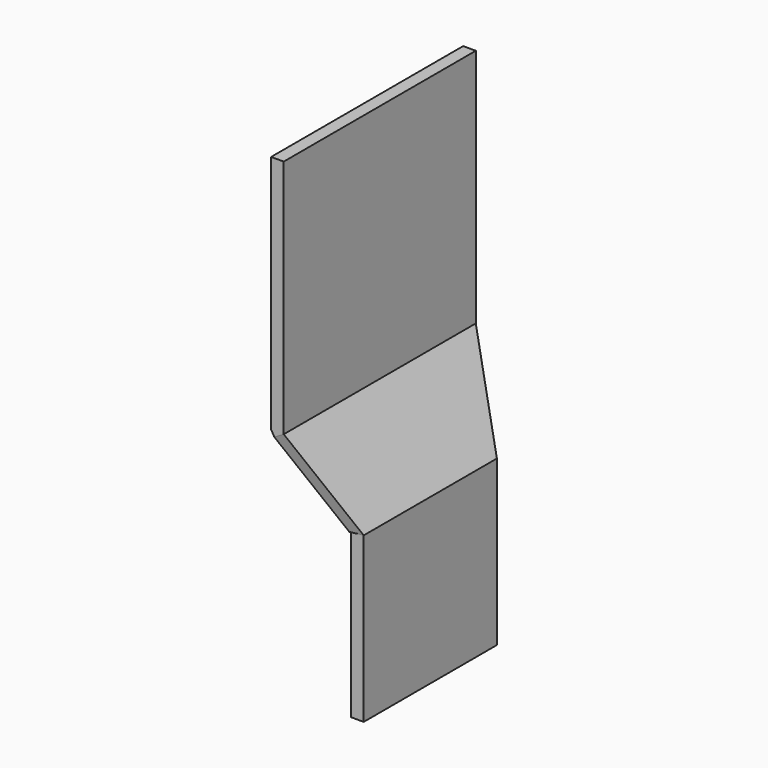
from build123d import *

# Parameters (mm, degrees)
F0_W     = 95
F0_H     = 95
F1_DEPTH = 5
F2_W     = 5
F2_H     = 65
F3_DEPTH = 95
F5_DEPTH = 25.4
F6_W     = 14.558809
F6_H     = 65
F7_DEPTH = 25.4


with BuildPart() as f1:
    # F0 (on Right) → F1 (new body)
    with BuildSketch(Plane.YZ):
        Rectangle(F0_W, F0_H)
    extrude(amount=F1_DEPTH)

    # F2 (on face) → F3 (join, through all)
    with BuildSketch(Plane.XZ.offset(47.5)):
        Polygon((25, -82.141016), (5, -47.5), (0, -47.5), (20, -82.141016), align=None)
        with Locations((22.5, -114.641016)):
            Rectangle(F2_W, F2_H)
    extrude(amount=-F3_DEPTH)

    # F4 (on face) → F5 (cut)
    with BuildSketch(Plane(origin=(-16.818103, 0, -9.709936), x_dir=(0, 1, 0), z_dir=(0.866025, 0, 0.5))):
        Polygon((-32.941191, -83.636207), (-47.5, -43.636207), (-47.5, -83.636207), align=None)
        Polygon((47.5, -83.636207), (47.5, -43.636207), (32.941191, -83.636207), align=None)
    extrude(amount=-F5_DEPTH, mode=Mode.SUBTRACT)

    # F6 (on face) → F7 (cut)
    with BuildSketch(Plane.YZ.offset(25)):
        with Locations((-40.220596, -114.641016)):
            Rectangle(F6_W, F6_H)
        with Locations((40.220596, -114.641016)):
            Rectangle(F6_W, F6_H)
    extrude(amount=-F7_DEPTH, mode=Mode.SUBTRACT)


solid = f1.part
